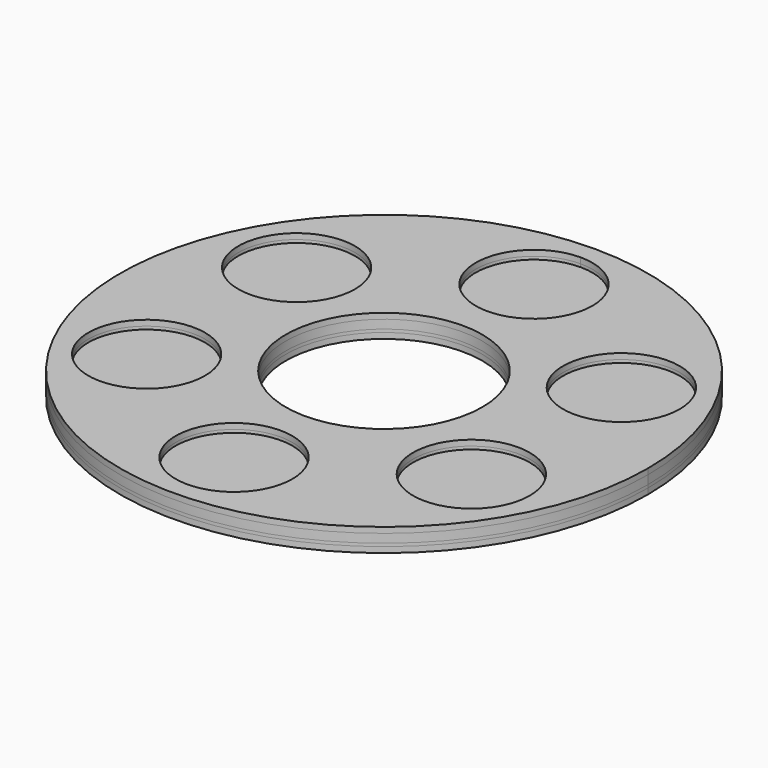
from build123d import *

# Parameters (mm, degrees)
F0_R         = 16.025
F0_R_2       = 27
F1_DEPTH     = 2.3815
F1_FACE_R    = 16.025
F1_FACE_R_2  = 27
F1_FACE1_R   = 16.025
F1_FACE1_R_2 = 27
F2_DEPTH     = 1.56


with BuildPart() as f1:
    # F0 (on Top) → F1 (new body, symmetric)
    with BuildSketch(Plane.XY):
        with BuildLine():
            ThreePointArc((0, 72.5), (-51.265241636, -51.265241636), (72.5, 0))
            ThreePointArc((72.5, 0), (51.265241636, 51.265241636), (0, 72.5))
        make_face()
        with Locations((-44.6003082949, -25.75)):
            Circle(F0_R, mode=Mode.SUBTRACT)
        with Locations((0, -51.5)):
            Circle(F0_R, mode=Mode.SUBTRACT)
        with Locations((44.6003082949, -25.75)):
            Circle(F0_R, mode=Mode.SUBTRACT)
        with Locations((-44.6003082949, 25.75)):
            Circle(F0_R, mode=Mode.SUBTRACT)
        Circle(F0_R_2, mode=Mode.SUBTRACT)
        with Locations((44.6003082949, 25.75)):
            Circle(F0_R, mode=Mode.SUBTRACT)
        with BuildLine():
            ThreePointArc((16.025, 51.5), (-11.3313861685, 40.1686138315), (0, 67.525))
            ThreePointArc((0, 67.525), (11.3313861685, 62.8313861685), (16.025, 51.5))
        make_face(mode=Mode.SUBTRACT)
    extrude(amount=F1_DEPTH, both=True)

    # F0 (on Top) + F1_face (on face) + F1_face1 (on face) → F2 (join)
    with BuildSketch(Plane.XY):
        with Locations((-44.6003082949, 25.75)):
            Circle(F0_R)
        with BuildLine():
            ThreePointArc((16.025, 51.5), (11.3313861685, 62.8313861685), (0, 67.525))
            ThreePointArc((0, 67.525), (-11.3313861685, 40.1686138315), (16.025, 51.5))
        make_face()
        with Locations((44.6003082949, 25.75)):
            Circle(F0_R)
        with Locations((44.6003082949, -25.75)):
            Circle(F0_R)
        with Locations((0, -51.5)):
            Circle(F0_R)
        with Locations((-44.6003082949, -25.75)):
            Circle(F0_R)
    with BuildSketch(Plane.XY.offset(2.3815)):
        with BuildLine():
            ThreePointArc((72.5, 0), (51.265241636, 51.265241636), (0, 72.5))
            ThreePointArc((0, 72.5), (-51.265241636, -51.265241636), (72.5, 0))
        make_face()
        with Locations((-44.6003082949, -25.75)):
            Circle(F1_FACE_R, mode=Mode.SUBTRACT)
        with Locations((0, -51.5)):
            Circle(F1_FACE_R, mode=Mode.SUBTRACT)
        with Locations((44.6003082949, -25.75)):
            Circle(F1_FACE_R, mode=Mode.SUBTRACT)
        with Locations((-44.6003082949, 25.75)):
            Circle(F1_FACE_R, mode=Mode.SUBTRACT)
        Circle(F1_FACE_R_2, mode=Mode.SUBTRACT)
        with Locations((44.6003082949, 25.75)):
            Circle(F1_FACE_R, mode=Mode.SUBTRACT)
        with BuildLine():
            ThreePointArc((16.025, 51.5), (-11.3313861685, 40.1686138315), (0, 67.525))
            ThreePointArc((0, 67.525), (11.3313861685, 62.8313861685), (16.025, 51.5))
        make_face(mode=Mode.SUBTRACT)
    with BuildSketch(Plane(origin=(0, 0, -2.3815), x_dir=(1, 0, 0), z_dir=(0, 0, -1))):
        with BuildLine():
            ThreePointArc((0, -72.5), (51.265241636, -51.265241636), (72.5, 0))
            ThreePointArc((72.5, 0), (-51.265241636, 51.265241636), (0, -72.5))
        make_face()
        with Locations((-44.6003082949, 25.75)):
            Circle(F1_FACE1_R, mode=Mode.SUBTRACT)
        with Locations((0, 51.5)):
            Circle(F1_FACE1_R, mode=Mode.SUBTRACT)
        with Locations((44.6003082949, 25.75)):
            Circle(F1_FACE1_R, mode=Mode.SUBTRACT)
        with Locations((-44.6003082949, -25.75)):
            Circle(F1_FACE1_R, mode=Mode.SUBTRACT)
        Circle(F1_FACE1_R_2, mode=Mode.SUBTRACT)
        with Locations((44.6003082949, -25.75)):
            Circle(F1_FACE1_R, mode=Mode.SUBTRACT)
        with BuildLine():
            ThreePointArc((0, -67.525), (-11.3313861685, -40.1686138315), (16.025, -51.5))
            ThreePointArc((16.025, -51.5), (11.3313861685, -62.8313861685), (0, -67.525))
        make_face(mode=Mode.SUBTRACT)
    extrude(amount=F2_DEPTH, dir=(0, 0, 1))


solid = f1.part
